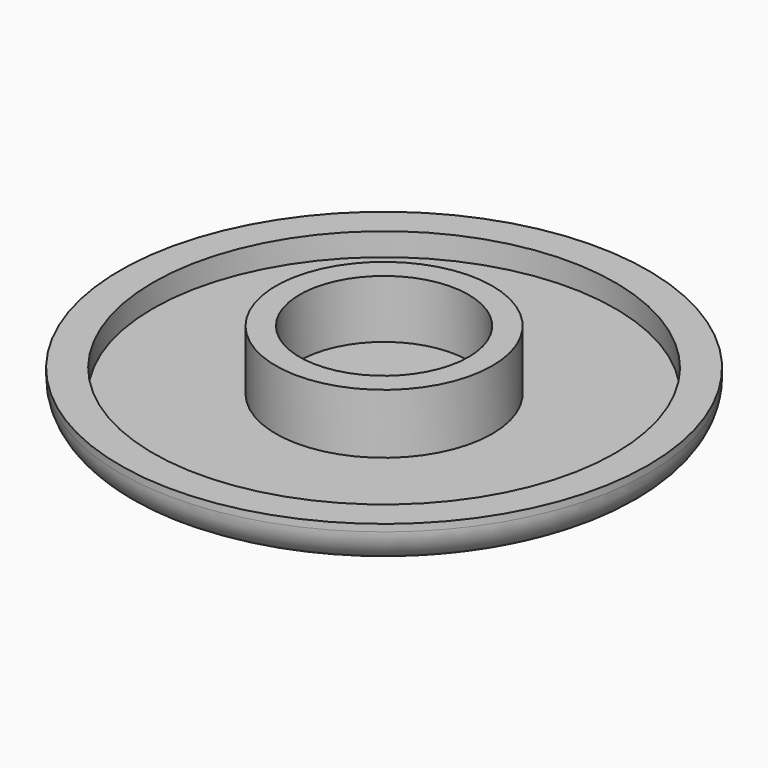
from build123d import *

# Parameters (mm, degrees)
F0_R     = 19.05
F1_DEPTH = 3.048
F2_R     = 2.54
F3_R     = 16.678994
F4_DEPTH = 1.651
F5_R     = 7.8105
F6_DEPTH = 4.318
F7_R     = 6.096
F8_DEPTH = 4.191


with BuildPart() as f1:
    # F0 (on Top) → F1 (new body)
    with BuildSketch(Plane.XY):
        Circle(F0_R)
    extrude(amount=F1_DEPTH)

    # F2
    f2_edges = [f1.edges().sort_by_distance(p)[0] for p in [
        (-19.05, 0, 0),
    ]]
    fillet(f2_edges, radius=F2_R)

    # F3 (on face) → F4 (cut)
    with BuildSketch(Plane.XY.offset(3.048)):
        Circle(F3_R)
    extrude(amount=-F4_DEPTH, mode=Mode.SUBTRACT)

    # F5 (on face) → F6 (join)
    with BuildSketch(Plane.XY.offset(1.397)):
        Circle(F5_R)
    extrude(amount=F6_DEPTH)

    # F7 (on face) → F8 (cut)
    with BuildSketch(Plane.XY.offset(5.715)):
        Circle(F7_R)
    extrude(amount=-F8_DEPTH, mode=Mode.SUBTRACT)


solid = f1.part
